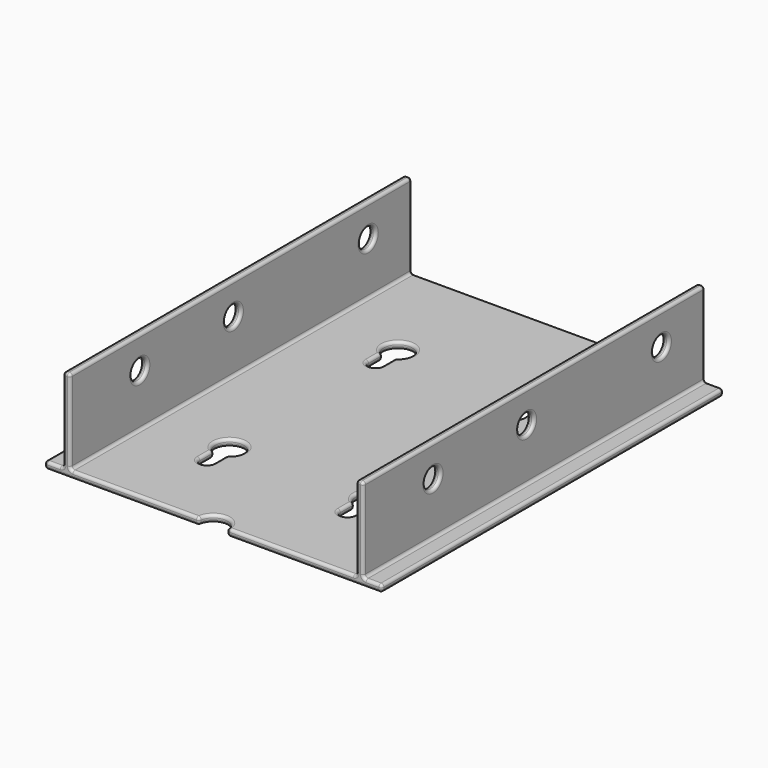
from build123d import *

# Parameters (mm, degrees)
SKETCH_W        = 120
SKETCH_H        = 152
PAD_DEPTH       = 2.5
SKETCH001_W     = 2.5
SKETCH001_H     = 152
PAD001_DEPTH    = 30
SKETCH002_R     = 3.5
POCKET_DEPTH    = 113.426
SKETCH003_R     = 5
POCKET001_DEPTH = 2.501
FILLET_R        = 1


with BuildPart() as part:
    # Sketch (on XY_Plane of Origin) → Pad (new body)
    with BuildSketch(Plane.XY):
        Rectangle(SKETCH_W, SKETCH_H)
    extrude(amount=PAD_DEPTH)

    # Sketch001 (on Face6 of Pad) → Pad001 (join)
    with BuildSketch(Plane.XY.offset(2.5)):
        with Locations((-52.175, 0)):
            Rectangle(SKETCH001_W, SKETCH001_H)
        with Locations((52.175, 0)):
            Rectangle(SKETCH001_W, SKETCH001_H)
    extrude(amount=PAD001_DEPTH)

    # Sketch002 (on Face10 of Pad001) → Pocket (cut, through all)
    with BuildSketch(Plane.YZ.offset(53.425)):
        with Locations((-45, 21.15)):
            Circle(SKETCH002_R)
        with Locations((-3.39, 21.15)):
            Circle(SKETCH002_R)
        with Locations((56.6, 21.15)):
            Circle(SKETCH002_R)
    extrude(amount=-POCKET_DEPTH, mode=Mode.SUBTRACT)

    # Sketch003 (on Face9 of Pocket) → Pocket001 (cut, through all)
    with BuildSketch(Plane.XY.offset(2.5)):
        with Locations((-25, 37.5)):
            Circle(SKETCH003_R)
        with Locations((25, 37.5)):
            Circle(SKETCH003_R)
        with Locations((25, -37.5)):
            Circle(SKETCH003_R)
        with Locations((-25, -37.5)):
            Circle(SKETCH003_R)
        with Locations((0, -76)):
            Circle(SKETCH003_R)
        with BuildLine():
            ThreePointArc((-22.5, 37.5), (-25, 40), (-27.5, 37.5))
            Line((-27.5, 37.5), (-27.5, 27.5))
            ThreePointArc((-27.5, 27.5), (-25, 25), (-22.5, 27.5))
            Line((-22.5, 37.5), (-22.5, 27.5))
        make_face()
        with BuildLine():
            ThreePointArc((27.5, 37.5), (25, 40), (22.5, 37.5))
            Line((22.5, 37.5), (22.5, 27.5))
            ThreePointArc((22.5, 27.5), (25, 25), (27.5, 27.5))
            Line((27.5, 37.5), (27.5, 27.5))
        make_face()
        with BuildLine():
            ThreePointArc((27.5, -37.5), (25, -35), (22.5, -37.5))
            Line((22.5, -37.5), (22.5, -47.5))
            ThreePointArc((22.5, -47.5), (25, -50), (27.5, -47.5))
            Line((27.5, -37.5), (27.5, -47.5))
        make_face()
        with BuildLine():
            ThreePointArc((-22.5, -37.5), (-25, -35), (-27.5, -37.5))
            Line((-27.5, -37.5), (-27.5, -47.5))
            ThreePointArc((-27.5, -47.5), (-25, -50), (-22.5, -47.5))
            Line((-22.5, -37.5), (-22.5, -47.5))
        make_face()
    extrude(amount=-POCKET001_DEPTH, mode=Mode.SUBTRACT)

    # Fillet
    fillet_edges = [part.edges().sort_by_distance(p)[0] for p in [
        (50.925, 0, 2.5),
        (27.9625, -76, 2.5),
        (0, -71, 2.5),
        (-27.9625, -76, 2.5),
        (-50.925, 0, 2.5),
        (0, 76, 2.5),
        (-20.669873, -40, 2.5),
        (-27.5, -33.169873, 2.5),
        (-27.5, -44.665064, 2.5),
        (-25, -50, 2.5),
        (-22.5, -44.665064, 2.5),
        (29.330127, -40, 2.5),
        (22.5, -33.169873, 2.5),
        (22.5, -44.665064, 2.5),
        (25, -50, 2.5),
        (27.5, -44.665064, 2.5),
        (-20.669873, 35, 2.5),
        (-27.5, 41.830127, 2.5),
        (-27.5, 30.334936, 2.5),
        (-25, 25, 2.5),
        (-22.5, 30.334936, 2.5),
        (29.330127, 35, 2.5),
        (22.5, 41.830127, 2.5),
        (22.5, 30.334936, 2.5),
        (25, 25, 2.5),
        (27.5, 30.334936, 2.5),
        (50.925, 76, 17.5),
        (50.925, 0, 32.5),
        (50.925, -76, 17.5),
        (50.925, 53.1, 21.15),
        (50.925, -6.89, 21.15),
        (50.925, -48.5, 21.15),
        (5, -76, 1.25),
        (52.175, -76, 32.5),
        (53.425, -76, 17.5),
        (56.7125, -76, 2.5),
        (60, -76, 1.25),
        (32.5, -76, 0),
        (-5, -76, 1.25),
        (0, -71, 0),
        (-60, -76, 1.25),
        (-56.7125, -76, 2.5),
        (-53.425, -76, 17.5),
        (-52.175, -76, 32.5),
        (-50.925, -76, 17.5),
        (-32.5, -76, 0),
        (-50.925, 0, 32.5),
        (-50.925, 76, 17.5),
        (-50.925, -48.5, 21.15),
        (-50.925, -6.89, 21.15),
        (-50.925, 53.1, 21.15),
        (60, 76, 1.25),
        (0, 76, 0),
        (-60, 76, 1.25),
        (-56.7125, 76, 2.5),
        (-53.425, 76, 17.5),
        (-52.175, 76, 32.5),
        (52.175, 76, 32.5),
        (53.425, 76, 17.5),
        (56.7125, 76, 2.5),
        (-27.5, -47.5, 1.25),
        (-27.5, -44.665064, 0),
        (-27.5, -41.830127, 1.25),
        (-22.5, -47.5, 1.25),
        (-25, -50, 0),
        (-22.5, -44.665064, 0),
        (-22.5, -41.830127, 1.25),
        (22.5, -47.5, 1.25),
        (22.5, -44.665064, 0),
        (22.5, -41.830127, 1.25),
        (27.5, -47.5, 1.25),
        (25, -50, 0),
        (27.5, -44.665064, 0),
        (27.5, -41.830127, 1.25),
        (-27.5, 27.5, 1.25),
        (-27.5, 30.334936, 0),
        (-27.5, 33.169873, 1.25),
        (-22.5, 27.5, 1.25),
        (-25, 25, 0),
        (-22.5, 30.334936, 0),
        (-22.5, 33.169873, 1.25),
        (22.5, 27.5, 1.25),
        (22.5, 30.334936, 0),
        (22.5, 33.169873, 1.25),
        (27.5, 27.5, 1.25),
        (25, 25, 0),
        (27.5, 30.334936, 0),
        (27.5, 33.169873, 1.25),
        (53.425, 0, 32.5),
        (53.425, 53.1, 21.15),
        (52.175, 60.1, 21.15),
        (53.425, -6.89, 21.15),
        (52.175, 0.11, 21.15),
        (53.425, -48.5, 21.15),
        (52.175, -41.5, 21.15),
        (53.425, 0, 2.5),
        (60, 0, 2.5),
        (60, 0, 0),
        (-60, 0, 0),
        (-20.669873, -40, 0),
        (-27.5, -33.169873, 0),
        (29.330127, -40, 0),
        (22.5, -33.169873, 0),
        (-20.669873, 35, 0),
        (-27.5, 41.830127, 0),
        (29.330127, 35, 0),
        (22.5, 41.830127, 0),
        (-60, 0, 2.5),
        (-53.425, 0, 2.5),
        (-53.425, 0, 32.5),
        (-53.425, 53.1, 21.15),
        (-53.425, -6.89, 21.15),
        (-53.425, -48.5, 21.15),
        (-52.175, -41.5, 21.15),
        (-52.175, 0.11, 21.15),
        (-52.175, 60.1, 21.15),
    ]]
    fillet(fillet_edges, radius=FILLET_R)


solid = part.part
